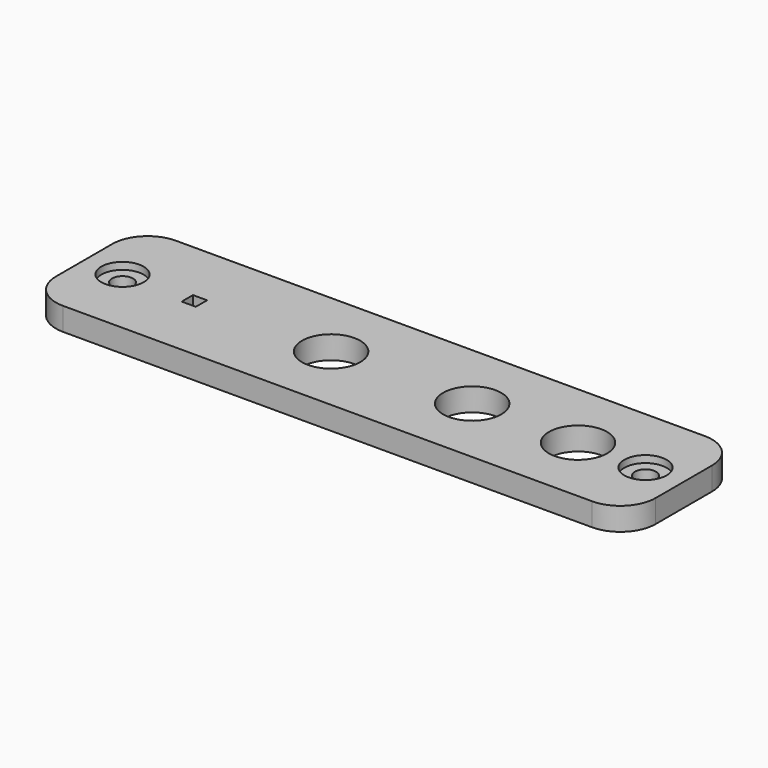
from build123d import *

# Parameters (mm, degrees)
SKETCH_W        = 65
SKETCH_H        = 20
SKETCH_R        = 4.125
PAD_DEPTH       = 3.25
SKETCH001_W     = 20
SKETCH001_H     = 3.25
PAD001_DEPTH    = 20
SKETCH002_R     = 1.5
SKETCH002_W     = 2
SKETCH002_H     = 2
POCKET_DEPTH    = 5
FILLET_R        = 5
SKETCH003_R     = 3
POCKET001_DEPTH = 1
SKETCH004_R     = 4.75
POCKET002_DEPTH = 1


with BuildPart() as part:
    # Sketch → Pad (new body)
    with BuildSketch(Plane.XY):
        with Locations((32.5, 10)):
            Rectangle(SKETCH_W, SKETCH_H)
        with Locations((15, 10)):
            Circle(SKETCH_R, mode=Mode.SUBTRACT)
        with Locations((50, 10)):
            Circle(SKETCH_R, mode=Mode.SUBTRACT)
        with Locations((35, 10)):
            Circle(SKETCH_R, mode=Mode.SUBTRACT)
    extrude(amount=PAD_DEPTH)

    # Sketch001 (on DatumPlane) → Pad001 (join)
    with BuildSketch(Plane(origin=(0, 0, 0), x_dir=(0, -1, 0), z_dir=(-1, 0, 0))):
        with Locations((-10, 1.625)):
            Rectangle(SKETCH001_W, SKETCH001_H)
    extrude(amount=PAD001_DEPTH)

    # Sketch002 (on DatumPlane) → Pocket (cut)
    with BuildSketch(Plane.XY.offset(3.25)):
        with Locations((-14.5625, 10)):
            Circle(SKETCH002_R)
        with Locations((59.5625, 10)):
            Circle(SKETCH002_R)
        with Locations((-4.375, 10)):
            Rectangle(SKETCH002_W, SKETCH002_H)
    extrude(amount=-POCKET_DEPTH, mode=Mode.SUBTRACT)

    # Fillet
    fillet_edges = [part.edges().sort_by_distance(p)[0] for p in [
        (-20, 20, 1.625),
        (-20, 0, 1.625),
        (65, 0, 1.625),
        (65, 20, 1.625),
    ]]
    fillet(fillet_edges, radius=FILLET_R)

    # Sketch003 (on DatumPlane) → Pocket001 (cut)
    with BuildSketch(Plane.XY.offset(3.25)):
        with Locations((-14.5625, 10)):
            Circle(SKETCH003_R)
        with Locations((59.5625, 10)):
            Circle(SKETCH003_R)
    extrude(amount=-POCKET001_DEPTH, mode=Mode.SUBTRACT)

    # Sketch004 (on DatumPlane) → Pocket002 (cut)
    with BuildSketch(Plane(origin=(0, 0, 0), x_dir=(1, 0, 0), z_dir=(0, 0, -1))):
        with Locations((-4.375, -10)):
            Circle(SKETCH004_R)
    extrude(amount=-POCKET002_DEPTH, mode=Mode.SUBTRACT)


solid = part.part
